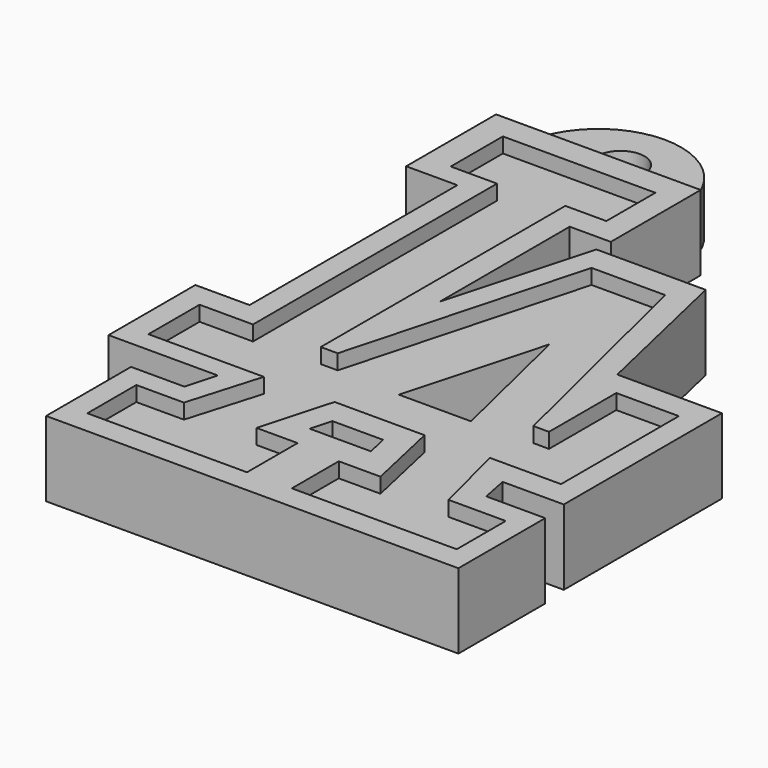
from build123d import *

# Parameters (mm, degrees)
F1_DEPTH = 5
F0_R     = 1.5875
F2_DEPTH = 3.5
F3_DEPTH = 4


with BuildPart() as f1:
    # F0 (on Top) → F1 (new body)
    with BuildSketch(Plane.XY):
        Polygon((-14.761455, 21.829162), (-16.066568, 21.829162), (-16.066568, 14.353847), (-12.664012, 14.353847), (-12.664012, -2.916705), (-16.272783, -2.916705), (-16.272783, -10.13425), (-9.003686, -10.13425), (-9.570778, -12.196405), (-13.127998, -12.196405), (-13.127998, -19.259289), (14.298672, -19.259289), (14.298672, -12.041744), (10.380576, -12.041744), (10.019699, -10.237358), (14.092457, -10.237358), (14.092457, 2.908884), (7.132681, 2.908884), (4.761202, 13.219662), (-2.507896, 13.219662), (-5.188699, 3.527531), (-5.188699, 14.353848), (-2.456342, 14.353848), (-2.456342, 21.829162), (-3.761455, 21.829162), align=None)
        Polygon((-1.53564, -11.828732), (-1.14685, -10.423108), (2.212943, -10.423108), (2.539253, -11.828732), align=None, mode=Mode.SUBTRACT)
        Polygon((-14.241549, 15.777845), (-14.241549, 20.112993), (-4.097303, 20.112993), (-4.097303, 16.037954), (-6.828447, 16.037954), (-6.828447, -4.293891), (-5.701307, -4.293891), (-1.409511, 11.442697), (3.489206, 11.442697), (7.347488, -4.337242), (8.387923, -4.337242), (8.387923, 1.255099), (12.549666, 1.255099), (12.549666, -8.542337), (7.824354, -8.542337), (9.081547, -13.571107), (12.896478, -13.571107), (12.896478, -17.646147), (1.928553, -17.646147), (1.928553, -13.744514), (4.703048, -13.744514), (3.575909, -8.672391), (-2.406595, -8.672391), (-3.750491, -13.484405), (-1.019347, -13.484405), (-1.019347, -17.689498), (-11.640461, -17.689498), (-11.640461, -13.61446), (-8.475802, -13.61446), (-7.045203, -8.759094), (-14.718415, -8.759094), (-14.718415, -4.510649), (-11.163594, -4.510649), (-11.163594, 15.777845), align=None, mode=Mode.SUBTRACT)
    extrude(amount=F1_DEPTH)

    # F0 (on Top) → F2 (join)
    with BuildSketch(Plane.XY):
        with BuildLine():
            ThreePointArc((-3.761455, 21.829162), (-9.261455, 27.329162), (-14.761455, 21.829162))
            Line((-14.761455, 21.829162), (-3.761455, 21.829162))
        make_face()
        with Locations((-9.261455, 23.674398)):
            Circle(F0_R, mode=Mode.SUBTRACT)
    extrude(amount=F2_DEPTH)

    # F0 (on Top) → F3 (join)
    with BuildSketch(Plane.XY):
        Polygon((-4.097303, 20.112993), (-14.241549, 20.112993), (-14.241549, 15.777845), (-11.163594, 15.777845), (-11.163594, -4.510649), (-14.718415, -4.510649), (-14.718415, -8.759094), (-7.045203, -8.759094), (-8.475802, -13.61446), (-11.640461, -13.61446), (-11.640461, -17.689498), (-1.019347, -17.689498), (-1.019347, -13.484405), (-3.750491, -13.484405), (-2.406595, -8.672391), (3.575909, -8.672391), (4.703048, -13.744514), (1.928553, -13.744514), (1.928553, -17.646147), (12.896478, -17.646147), (12.896478, -13.571107), (9.081547, -13.571107), (7.824354, -8.542337), (12.549666, -8.542337), (12.549666, 1.255099), (8.387923, 1.255099), (8.387923, -4.337242), (7.347488, -4.337242), (3.489206, 11.442697), (-1.409511, 11.442697), (-5.701307, -4.293891), (-6.828447, -4.293891), (-6.828447, 16.037954), (-4.097303, 16.037954), align=None)
        Polygon((-1.515705, -4.444579), (1.059277, 4.864968), (3.282977, -4.444579), align=None, mode=Mode.SUBTRACT)
    extrude(amount=F3_DEPTH)


solid = f1.part
